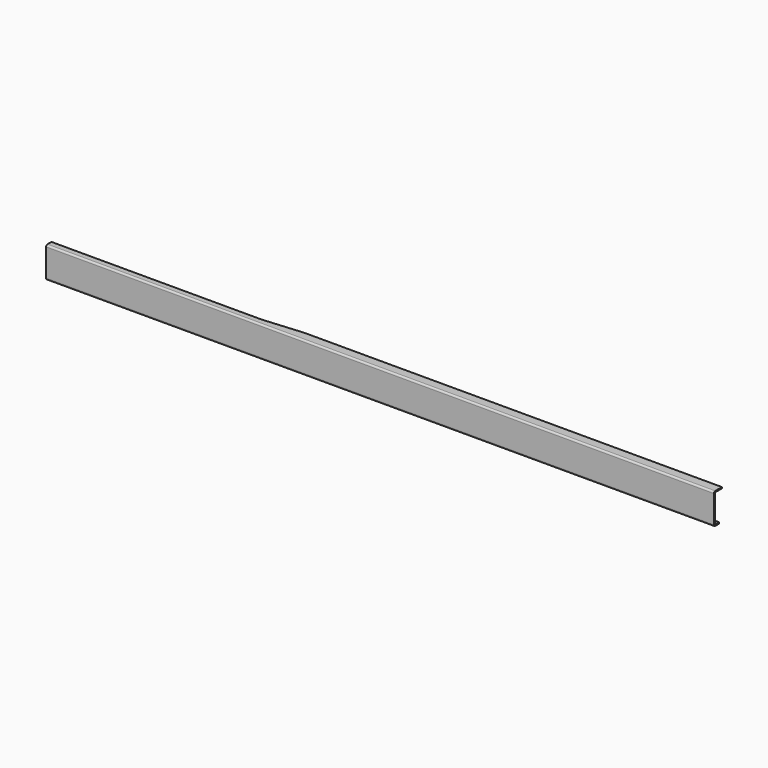
from build123d import *

# Parameters (mm, degrees)
F1_DEPTH = 5080
F3_DEPTH = 234.951


with BuildPart() as f1:
    # F0 (on Right) → F1 (new body)
    with BuildSketch(Plane.YZ):
        with BuildLine():
            Line((-431.8, 104.775), (-431.8, 0))
            Line((-431.8, 0), (-431.8, -104.775))
            ThreePointArc((-431.8, -104.775), (-428.080256, -113.755256), (-419.1, -117.475))
            Line((-419.1, -117.475), (-381, -117.475))
            Line((-381, -117.475), (-381, -107.95))
            Line((-381, -107.95), (-419.1, -107.95))
            ThreePointArc((-419.1, -107.95), (-421.345064, -107.020064), (-422.275, -104.775))
            Line((-422.275, -104.775), (-422.275, 0))
            Line((-422.275, 0), (-422.275, 104.775))
            ThreePointArc((-422.275, 104.775), (-421.345064, 107.020064), (-419.1, 107.95))
            Line((-419.1, 107.95), (-355.6, 107.95))
            Line((-355.6, 107.95), (-355.6, 117.475))
            Line((-355.6, 117.475), (-419.1, 117.475))
            ThreePointArc((-419.1, 117.475), (-428.080256, 113.755256), (-431.8, 104.775))
        make_face()
    extrude(amount=F1_DEPTH)

    # F2 (on face) → F3 (cut, through all)
    with BuildSketch(Plane.XY.offset(117.475)):
        Polygon((1600.2, -381), (1905, -355.6), (0, -355.6), (0, -381), align=None)
    extrude(amount=-F3_DEPTH, mode=Mode.SUBTRACT)


solid = f1.part
